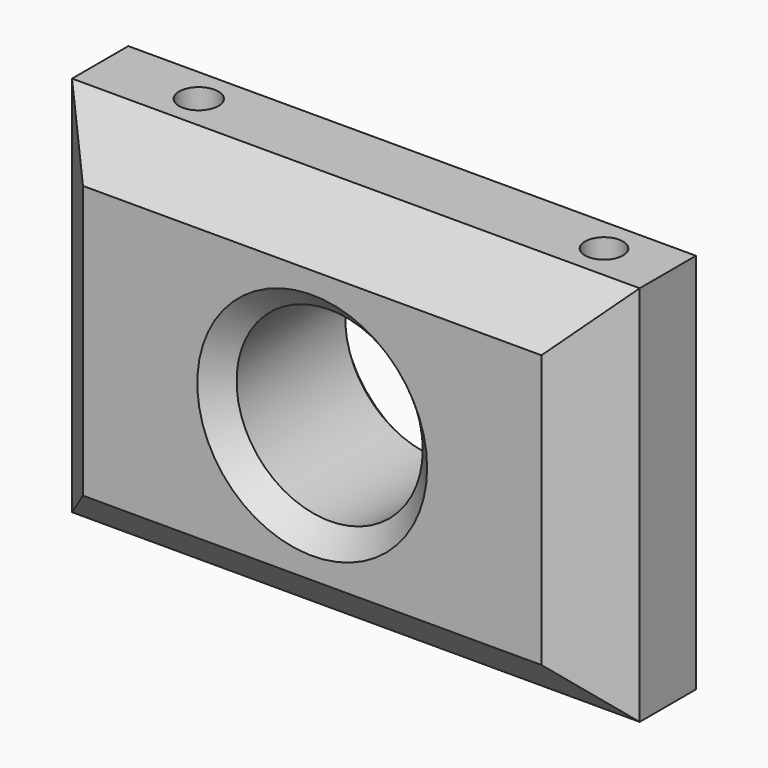
from build123d import *

# Parameters (mm, degrees)
F0_W     = 132.1267485619
F0_H     = 88.8679325581
F1_DEPTH = 41.7771711946
F2_SIZE  = 12.7
F3_R     = 21.6691340714
F4_DEPTH = 276.723921299
F5_SIZE  = 5.08
F6_R     = 4.579207341
F7_DEPTH = 88.8689325581
F6_R_2   = 4.4293082264
F8_DEPTH = 88.8689325581
F9_T     = -2.54


with BuildPart() as f1:
    # F0 (on Front) → F1 (new body)
    with BuildSketch(Plane.XZ):
        Rectangle(F0_W, F0_H)
    extrude(amount=F1_DEPTH)

    # F2
    f2_edges = [f1.edges().sort_by_distance(p)[0] for p in [
        (0, -41.777171, -44.433966),
        (66.063374, -41.777171, 0),
        (0, -41.777171, 44.433966),
        (-66.063374, -41.777171, 0),
        (0, 0, -44.433966),
        (66.063374, 0, 0),
        (-66.063374, 0, 0),
        (0, 0, 44.433966),
    ]]
    chamfer(f2_edges, length=F2_SIZE)

    # F3 (on face) → F4 (cut)
    with BuildSketch(Plane.XZ.offset(41.7771711946)):
        Circle(F3_R)
    extrude(amount=-F4_DEPTH, mode=Mode.SUBTRACT)

    # F5
    f5_edges = [f1.edges().sort_by_distance(p)[0] for p in [
        (-21.669134, 0, 0),
        (-21.669134, -41.777171, 0),
    ]]
    chamfer(f5_edges, length=F5_SIZE)

    # F6 (on face) → F7 (cut, through all)
    with BuildSketch(Plane.XY.offset(44.433966279)):
        with Locations((-43.1207939982, -20.8885855973)):
            Circle(F6_R)
    extrude(amount=-F7_DEPTH, mode=Mode.SUBTRACT)

    # F6 (on face) → F8 (cut, through all)
    with BuildSketch(Plane.XY.offset(44.433966279)):
        with Locations((-43.1207939982, -20.8885855973)):
            Circle(F6_R)
        with Locations((51.215508439, -20.8885855973)):
            Circle(F6_R_2)
    extrude(amount=-F8_DEPTH, mode=Mode.SUBTRACT)

    # F9
    f9_openings = [f1.faces().sort_by_distance(p)[0] for p in [
        (-27.990858, 0, 0),
    ]]
    offset(amount=F9_T, openings=f9_openings)


solid = f1.part
